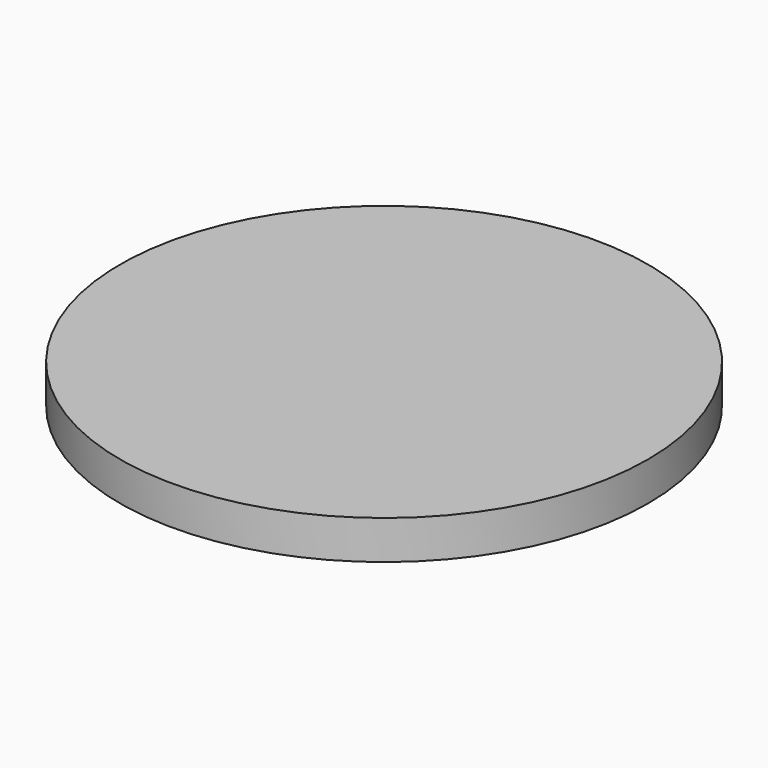
from build123d import *

# Parameters (mm, degrees)
CYLINDER_R     = 34
CYLINDER_DEPTH = 5


with BuildPart() as part:
    # Cylinder → Cylinder (new body)
    with BuildSketch(Plane.XY):
        Circle(CYLINDER_R)
    extrude(amount=CYLINDER_DEPTH)


solid = part.part
